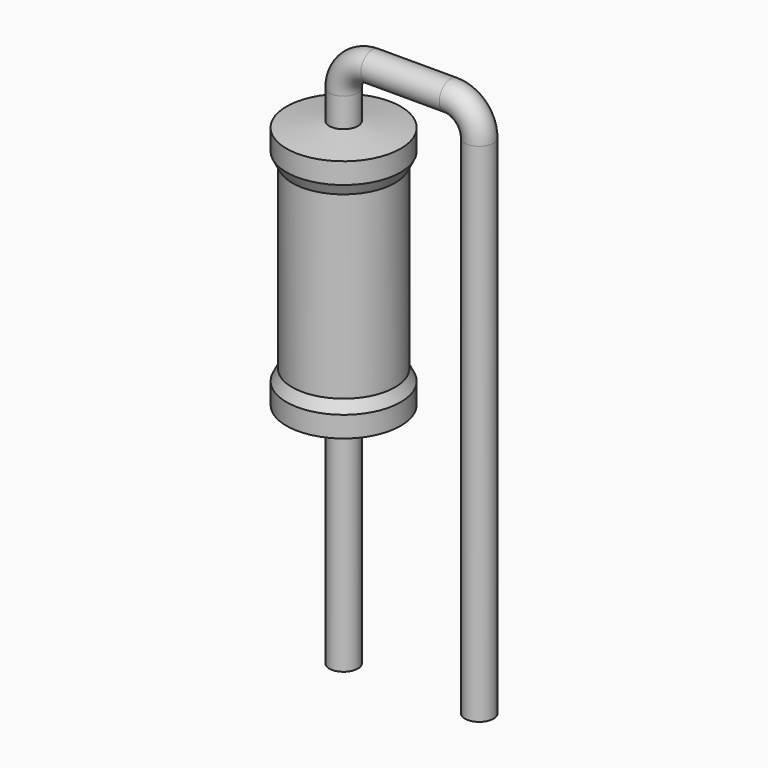
from build123d import *

# Parameters (mm, degrees)
SKETCH_R = 0.2


with BuildPart() as sweep_body:
    # Sweep: sweep along a path in Sketch001
    with BuildLine(Plane.XZ) as sweep_path:
        Line((0, -3), (0, 4.1))
        ThreePointArc((0, 4.1), (0.117156, 4.382841), (0.399995, 4.5))
        Line((0.399995, 4.5), (1.5, 4.5))
        ThreePointArc((1.5, 4.5), (1.782843, 4.382843), (1.9, 4.1))
        Line((1.9, 4.1), (1.9, -3))
    # Sketch → Sweep (sweep)
    with BuildSketch(Plane.XY.offset(-2)):
        Circle(SKETCH_R)
    sweep(path=sweep_path.line)


with BuildPart() as revolution:
    # Sketch002 → Revolution (revolve)
    with BuildSketch(Plane.XZ):
        Polygon((0, 0.1), (0, 3.7), (0.15, 3.7), (0.8, 3.61), (0.8, 3.3175), (0.72, 3.16), (0.72, 0.64), (0.8, 0.4825), (0.8, 0.19), (0.15, 0.1), align=None)
    revolve(axis=Axis((0, 0, 0), (0, 0, 1)))


solid = Compound([sweep_body.part, revolution.part])
